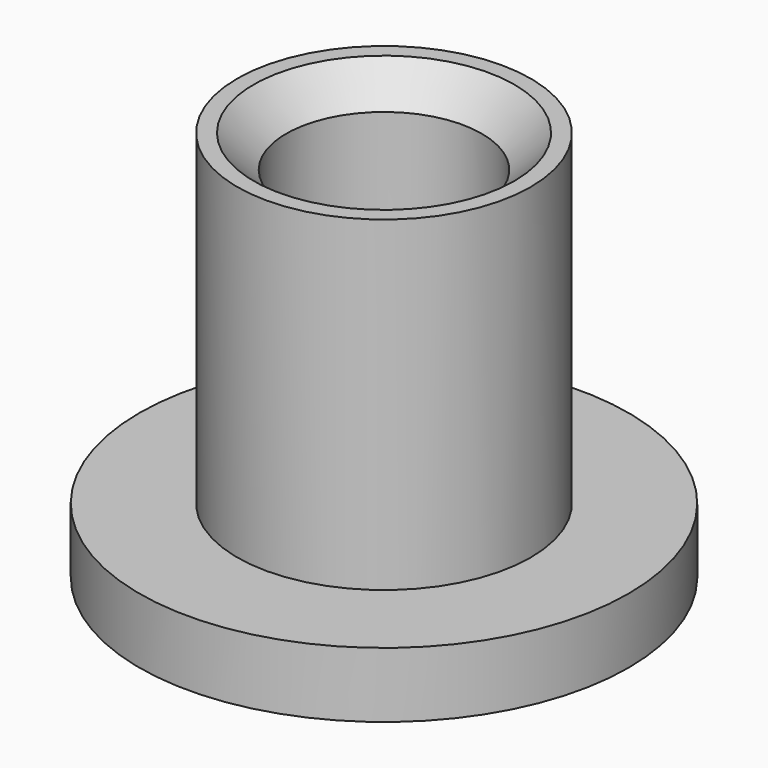
from build123d import *

# Parameters (mm, degrees)
F0_R     = 15
F0_R_2   = 9
F0_R_3   = 6
F0_R_4   = 2
F1_DEPTH = 4
F2_DEPTH = 20
F3_SIZE  = 1
F4_SIZE  = 2


with BuildPart() as f1:
    # F0 (on Top) → F1 (new body)
    with BuildSketch(Plane.XY):
        Circle(F0_R)
        Circle(F0_R_2, mode=Mode.SUBTRACT)
        Circle(F0_R_2)
        Circle(F0_R_3, mode=Mode.SUBTRACT)
        Circle(F0_R_3)
        Circle(F0_R_4, mode=Mode.SUBTRACT)
    extrude(amount=-F1_DEPTH)

    # F0 (on Top) → F2 (join)
    with BuildSketch(Plane.XY):
        Circle(F0_R_2)
        Circle(F0_R_3, mode=Mode.SUBTRACT)
    extrude(amount=F2_DEPTH)

    # F3
    f3_edges = [f1.edges().sort_by_distance(p)[0] for p in [
        (-2, 0, 0),
    ]]
    chamfer(f3_edges, length=F3_SIZE)

    # F4
    f4_edges = [f1.edges().sort_by_distance(p)[0] for p in [
        (-6, 0, 20),
    ]]
    chamfer(f4_edges, length=F4_SIZE)


solid = f1.part
